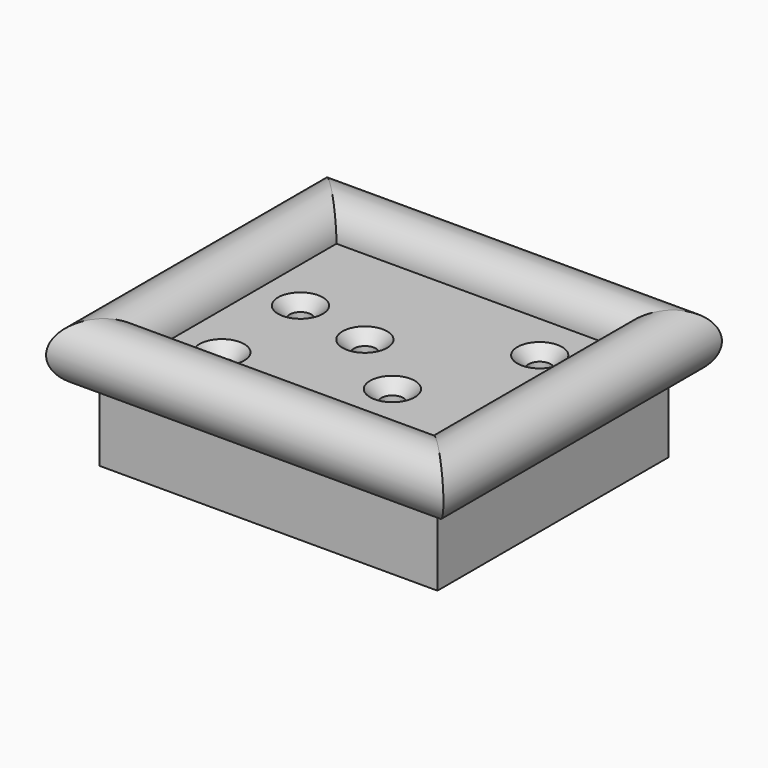
from build123d import *

# Parameters (mm, degrees)
F0_W           = 84.6236236393
F0_H           = 72.3108425736
F1_DEPTH       = 25
F3_D           = 5.5
F3_CSINK_D     = 11.2
F3_CSINK_ANGLE = 90


with BuildPart() as f1:
    # F0 (on Top) → F1 (new body)
    with BuildSketch(Plane.XY):
        with Locations((5.1834825426, -0.5025528371)):
            Rectangle(F0_W, F0_H)
    extrude(amount=F1_DEPTH)

    # F3 (through all)
    with Locations(Plane.XY.offset(25)):
        with Locations((-18.4712763876, -21.672623232), (17.2712653875, -12.972522527), (0, 0), (-18.829761073, 3.3679855987), (30.8238454163, 16.1767713726)):
            CounterSinkHole(F3_D / 2, F3_CSINK_D / 2, counter_sink_angle=F3_CSINK_ANGLE)

    # F5: sweep along a path in F5_path
    with BuildLine(Plane(origin=(47.4952943623, 35.6528684497, 25), x_dir=(0, -1, 0), z_dir=(0, 0, -1))) as f5_path:
        Line((0, 0), (0, 84.6236236393))
        Line((0, 84.6236236393), (72.3108425736, 84.6236236393))
        Line((72.3108425736, 84.6236236393), (72.3108425736, 0))
        Line((72.3108425736, 0), (0, 0))
    # F4 (on face) → F5 (sweep)
    with BuildSketch(Plane(origin=(-37.128329277, 0, 0), x_dir=(0, -1, 0), z_dir=(-1, 0, 0))):
        with BuildLine():
            Line((-35.6528684497, 25), (-28.2249371945, 25))
            ThreePointArc((-28.2249371945, 25), (-40.9052090104, 30.2523405608), (-35.6528684497, 17.5720687448))
            Line((-35.6528684497, 17.5720687448), (-35.6528684497, 25))
        make_face()
    sweep(path=f5_path.line, transition=Transition.RIGHT)


solid = f1.part
